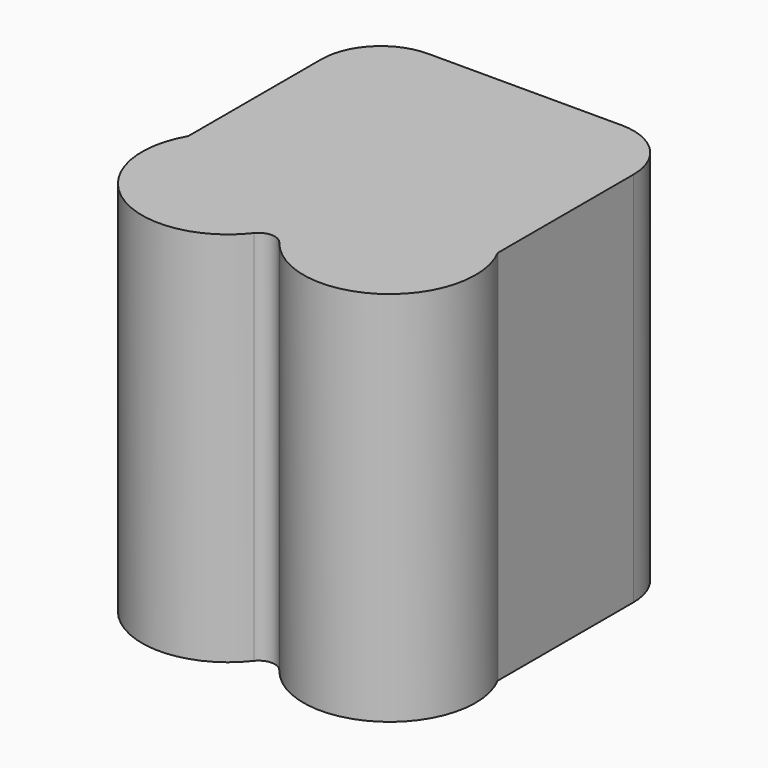
from build123d import *

# Parameters (mm, degrees)
F1_DEPTH = 35


with BuildPart() as f1:
    # F0 (on Top) → F1 (new body)
    with BuildSketch(Plane.XY):
        with BuildLine():
            Line((9, 17.5), (-9, 17.5))
            ThreePointArc((-9, 17.5), (-12.889087, 15.889087), (-14.5, 12))
            Line((-14.5, 12), (-14.5, -3.481193))
            ThreePointArc((-14.5, -3.481193), (-12.057349, -14.131547), (-1.2669, -12.410275))
            ThreePointArc((-1.2669, -12.410275), (-0.082689, -11.830952), (1.101521, -12.410275))
            ThreePointArc((1.101521, -12.410275), (11.749259, -14.225639), (14.5, -3.780388))
            Line((14.5, -3.780388), (14.5, 12))
            ThreePointArc((14.5, 12), (12.889087, 15.889087), (9, 17.5))
        make_face()
    extrude(amount=F1_DEPTH)


solid = f1.part
